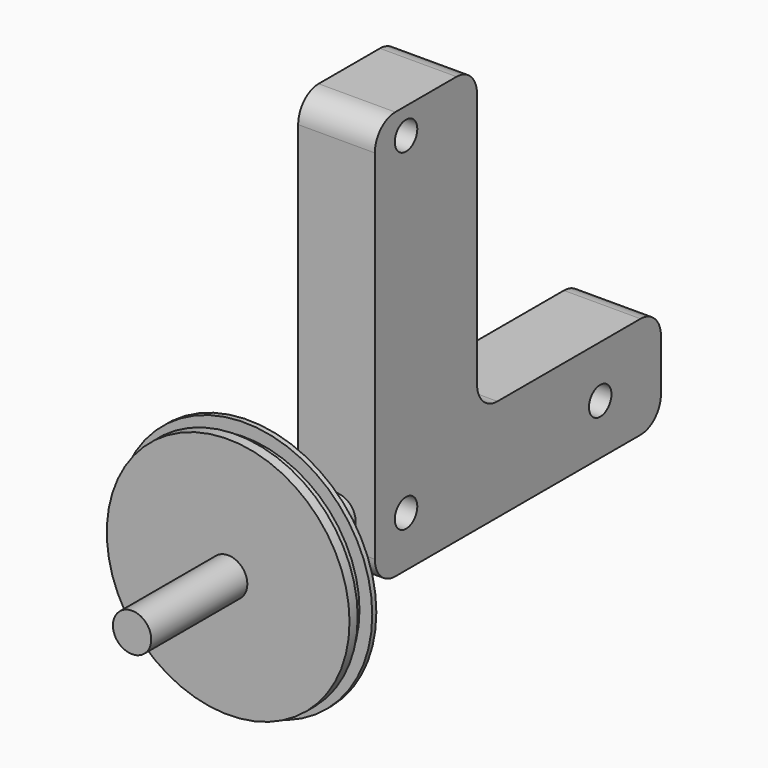
from build123d import *

# Parameters (mm, degrees)
F1_W      = 140
F1_H      = 160
F2_DEPTH  = 30
F3_R      = 10
F4_W      = 90
F4_H      = 120
F5_DEPTH  = 30.001
F6_R      = 10
F7_D      = 11
F8_R      = 7.5
F9_DEPTH  = 100
F11_R     = 50
F12_DEPTH = 2
F13_R     = 45
F13_R_2   = 7.5
F14_DEPTH = 4
F15_R     = 47.5
F16_DEPTH = 4


with BuildPart() as f2:
    # F1 (on Right) → F2 (new body)
    with BuildSketch(Plane.YZ):
        with Locations((1.3344958425, 48.294539011)):
            Rectangle(F1_W, F1_H)
    extrude(amount=F2_DEPTH)

    # F3
    f3_edges = [f2.edges().sort_by_distance(p)[0] for p in [
        (15, -68.665504, 128.294539),
        (15, -68.665504, -31.705461),
    ]]
    fillet(f3_edges, radius=F3_R)

    # F4 (on face) → F5 (cut, through all)
    with BuildSketch(Plane.YZ.offset(30)):
        with Locations((26.3344958425, 68.294539011)):
            Rectangle(F4_W, F4_H)
    extrude(amount=-F5_DEPTH, mode=Mode.SUBTRACT)

    # F6
    f6_edges = [f2.edges().sort_by_distance(p)[0] for p in [
        (15, -18.665504, 128.294539),
        (15, -18.665504, 8.294539),
        (15, 71.334496, 8.294539),
        (15, 71.334496, -31.705461),
    ]]
    fillet(f6_edges, radius=F6_R)

    # F7 (through all)
    with Locations(Plane(origin=(0, 0, 0), x_dir=(0, 1, 0), z_dir=(-1, 0, 0))):
        with Locations((-53.3879697323, -118.0560608581), (-53.3879697323, 11.9439391419), (41.6120302677, 11.9439391419)):
            Hole(F7_D / 2)

    # F8 (on face) → F9 (join)
    with BuildSketch(Plane.XZ.offset(68.6655041575)):
        with Locations((15, -11.168804951)):
            Circle(F8_R)
    extrude(amount=F9_DEPTH)

    # F11 (on offset) → F12 (join)
    with BuildSketch(Plane.XZ.offset(111.6655041575)):
        with Locations((15, -11.168804951)):
            Circle(F11_R)
    extrude(amount=F12_DEPTH)

    # F13 (on face) → F14 (join)
    with BuildSketch(Plane.XZ.offset(113.6655041575)):
        with Locations((15, -11.168804951)):
            Circle(F13_R)
        with Locations((15, -11.168804951)):
            Circle(F13_R_2, mode=Mode.SUBTRACT)
    extrude(amount=F14_DEPTH)

    # F15 (on face) → F16 (join)
    with BuildSketch(Plane.XZ.offset(117.6655041575)):
        with Locations((15, -11.168804951)):
            Circle(F15_R)
    extrude(amount=F16_DEPTH)


solid = f2.part
